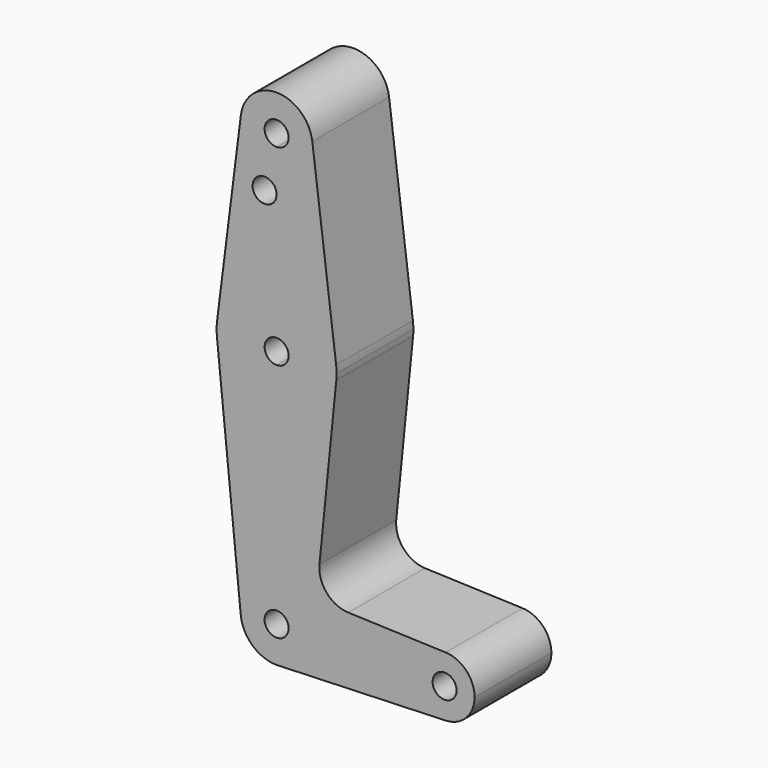
from build123d import *

# Parameters (mm, degrees)
F0_R     = 3.175
F1_DEPTH = 25.4


with BuildPart() as f1:
    # F0 (on Front) → F1 (new body)
    with BuildSketch(Plane.XZ):
        with BuildLine():
            ThreePointArc((9.4502929642, 115.490625), (0, 123.825), (-9.4502929642, 115.490625))
            ThreePointArc((-9.4502929642, 115.490625), (-7.14375, 107.9998046905), (0, 104.775))
            ThreePointArc((0, 104.775), (6.7351920908, 107.5648079092), (9.525, 114.3))
            ThreePointArc((9.525, 114.3), (9.5063048942, 114.896483242), (9.4502929642, 115.490625))
        make_face()
        with BuildLine():
            ThreePointArc((3.175, 114.3), (2.2450640303, 112.0549359697), (0, 111.125))
            ThreePointArc((0, 111.125), (-2.2450640303, 116.5450640303), (3.175, 114.3))
        make_face(mode=Mode.SUBTRACT)
        with BuildLine():
            Line((0, 100.0252), (0, 79.375))
            ThreePointArc((0, 79.375), (10.5003255158, 75.40625), (15.7504882737, 65.484375))
            Line((15.7504882737, 65.484375), (9.4502929642, 115.490625))
            ThreePointArc((9.4502929642, 115.490625), (9.5063048942, 114.896483242), (9.525, 114.3))
            ThreePointArc((9.525, 114.3), (6.7351920908, 107.5648079092), (0, 104.775))
            Line((0, 104.775), (0, 100.0252))
        make_face()
        with BuildLine():
            Line((-9.4502929642, 115.490625), (-15.7504882737, 65.484375))
            ThreePointArc((-15.7504882737, 65.484375), (-10.5003255158, 75.40625), (0, 79.375))
            Line((0, 79.375), (0, 100.0252))
            Line((0, 100.0252), (0, 104.775))
            ThreePointArc((0, 104.775), (-7.14375, 107.9998046905), (-9.4502929642, 115.490625))
        make_face()
        with Locations((-3.175, 100.0252)):
            Circle(F0_R, mode=Mode.SUBTRACT)
        with BuildLine():
            ThreePointArc((-15.7954255641, 61.9125), (-10.6492737428, 51.7267849017), (0, 47.625))
            Line((0, 47.625), (0, 60.325))
            ThreePointArc((0, 60.325), (-3.175, 63.5), (0, 66.675))
            Line((0, 66.675), (0, 79.375))
            ThreePointArc((0, 79.375), (-10.5003255158, 75.40625), (-15.7504882737, 65.484375))
            ThreePointArc((-15.7504882737, 65.484375), (-15.8737438155, 63.6997054867), (-15.7954255641, 61.9125))
        make_face()
        with BuildLine():
            Line((0, 60.325), (0, 47.625))
            ThreePointArc((0, 47.625), (10.6492737428, 51.7267849017), (15.7954255641, 61.9125))
            ThreePointArc((15.7954255641, 61.9125), (15.8550939106, 62.7052534459), (15.875, 63.5))
            ThreePointArc((15.875, 63.5), (15.8438414904, 64.4941387366), (15.7504882737, 65.484375))
            ThreePointArc((15.7504882737, 65.484375), (10.5003255158, 75.40625), (0, 79.375))
            Line((0, 79.375), (0, 66.675))
            ThreePointArc((0, 66.675), (2.2450640303, 65.7450640303), (3.175, 63.5))
            ThreePointArc((3.175, 63.5), (2.2450640303, 61.2549359697), (0, 60.325))
        make_face()
        with BuildLine():
            ThreePointArc((0, 9.525), (6.7351920908, 6.7351920908), (9.525, 0))
            Line((9.525, 0), (36.5125, 0))
            ThreePointArc((36.5125, 0), (38.9380895153, 5.7116327839), (44.7324052746, 7.9324746146))
            Line((44.7324052746, 7.9324746146), (18.968327868, 8.8497055806))
            ThreePointArc((18.968327868, 8.8497055806), (13.2612039825, 11.5674628959), (11.3408358685, 17.5898921545))
            Line((11.3408358685, 17.5898921545), (15.7954255641, 61.9125))
            ThreePointArc((15.7954255641, 61.9125), (10.6492737428, 51.7267849017), (0, 47.625))
            Line((0, 47.625), (0, 9.525))
        make_face()
        with BuildLine():
            ThreePointArc((-9.4772553384, -0.9525), (-7.063929059, 6.3895642457), (0, 9.525))
            Line((0, 9.525), (0, 47.625))
            ThreePointArc((0, 47.625), (-10.6492737428, 51.7267849017), (-15.7954255641, 61.9125))
            Line((-15.7954255641, 61.9125), (-9.4772553384, -0.9525))
        make_face()
        with BuildLine():
            Line((9.525, 0), (3.175, 0))
            ThreePointArc((3.175, 0), (-2.2450640303, -2.2450640303), (0, 3.175))
            Line((0, 3.175), (0, 9.525))
            ThreePointArc((0, 9.525), (-7.063929059, 6.3895642457), (-9.4772553384, -0.9525))
            ThreePointArc((-9.4772553384, -0.9525), (-6.3895642457, -7.063929059), (0, -9.525))
            Line((0, -9.525), (0.6773435479, -9.500885786))
            ThreePointArc((0.6773435479, -9.500885786), (6.9705567315, -6.4912990883), (9.525, 0))
        make_face()
        with BuildLine():
            ThreePointArc((0, 3.175), (2.2450640303, 2.2450640303), (3.175, 0))
            Line((3.175, 0), (9.525, 0))
            ThreePointArc((9.525, 0), (6.7351920908, 6.7351920908), (0, 9.525))
            Line((0, 9.525), (0, 3.175))
        make_face()
        with BuildLine():
            Line((36.5125, 0), (9.525, 0))
            ThreePointArc((9.525, 0), (6.9705567315, -6.4912990883), (0.6773435479, -9.500885786))
            Line((0.6773435479, -9.500885786), (44.7324052746, -7.9324746146))
            ThreePointArc((44.7324052746, -7.9324746146), (38.9380895153, -5.7116327839), (36.5125, 0))
        make_face()
        with BuildLine():
            ThreePointArc((44.7324052746, 7.9324746146), (38.9380895153, 5.7116327839), (36.5125, 0))
            ThreePointArc((36.5125, 0), (38.9380895153, -5.7116327839), (44.7324052746, -7.9324746146))
            ThreePointArc((44.7324052746, -7.9324746146), (50.1616327839, -5.5119104847), (52.3875, 0))
            ThreePointArc((52.3875, 0), (50.1616327839, 5.5119104847), (44.7324052746, 7.9324746146))
        make_face()
        with BuildLine():
            ThreePointArc((47.625, 0), (44.45, -3.175), (41.275, 0))
            ThreePointArc((41.275, 0), (44.45, 3.175), (47.625, 0))
        make_face(mode=Mode.SUBTRACT)
    extrude(amount=F1_DEPTH)


solid = f1.part
